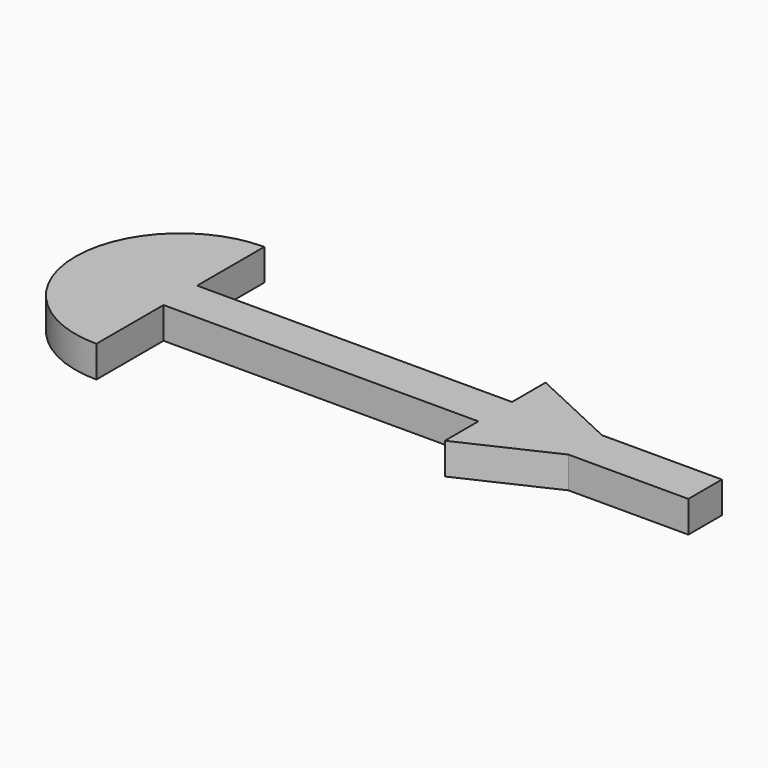
from build123d import *

# Parameters (mm, degrees)
F1_DEPTH = 1.5


with BuildPart() as f1:
    # F0 (on Top) → F1 (new body)
    with BuildSketch(Plane.XY):
        Polygon((15, 1), (0, 1), (0, -1), (15, -1), (19.289014, -1), (25, -1), (25, 1), (19.289014, 1), align=None)
        with BuildLine():
            Line((0, -1), (0, 1))
            Line((0, 1), (0, 5))
            ThreePointArc((0, 5), (-5, 0), (0, -5))
            Line((0, -5), (0, -1))
        make_face()
        Polygon((15, 3), (15, 1), (19.289014, 1), align=None)
        Polygon((19.289014, -1), (15, -1), (15, -3), align=None)
    extrude(amount=F1_DEPTH)


solid = f1.part
